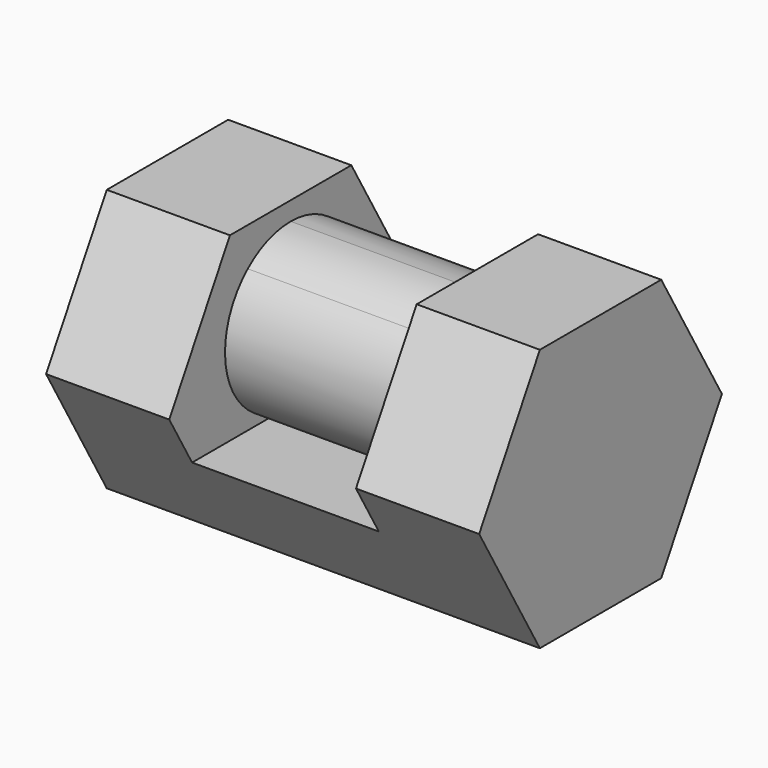
from build123d import *

# Parameters (mm, degrees)
F3_DEPTH = 150
F6_DEPTH = 227.39467
F7_DEPTH = 227.39467


with BuildPart() as f3:
    # F2 (on line) → F3 (new body)
    with BuildSketch(Plane.YZ.offset(263.697335)):
        Polygon((0, 320), (0, 0), (92.3760430703, 0), (184.7520861407, 160), (92.3760430703, 320), align=None)
        Polygon((-92.3760430703, 0), (0, 0), (0, 320), (-92.3760430703, 320), (-184.7520861407, 160), align=None)
    extrude(amount=-F3_DEPTH)


with BuildPart() as f4_1:
    # F4: instance of F3
    add(f3.part.mirror(Plane.YZ))


with BuildPart() as f3_1:
    add(f3.part)

    add(f4_1.part)  # F6 merges F4_1
    # F5 (on face) → F6 (join, through all)
    with BuildSketch(Plane(origin=(113.697335, 0, 0), x_dir=(0, -1, 0), z_dir=(-1, 0, 0))):
        Polygon((-149.9936365076, 99.7965992432), (-92.3760430703, 0), (-34.7584496331, 99.7965992432), align=None)
        with BuildLine():
            Line((-34.7584496331, 99.7965992432), (-92.3760430703, 0))
            Line((-92.3760430703, 0), (92.3760430703, 0))
            Line((92.3760430703, 0), (34.7584496331, 99.7965992432))
            Line((34.7584496331, 99.7965992432), (20.8100413197, 99.7965992432))
            ThreePointArc((20.8100413197, 99.7965992432), (0, 97.6046816163), (-20.8100413197, 99.7965992432))
            Line((-20.8100413197, 99.7965992432), (-34.7584496331, 99.7965992432))
        make_face()
        Polygon((34.7584496331, 99.7965992432), (92.3760430703, 0), (149.9936365076, 99.7965992432), align=None)
    extrude(amount=F6_DEPTH)

    # F5 (on face) → F7 (join, through all)
    with BuildSketch(Plane(origin=(113.697335, 0, 0), x_dir=(0, -1, 0), z_dir=(-1, 0, 0))):
        with BuildLine():
            Line((-92.5799725491, 160), (0, 160))
            Line((0, 160), (0, 297.366897697))
            ThreePointArc((0, 297.366897697), (-82.8261973956, 253.3074410864), (-92.5799725491, 160))
        make_face()
        with BuildLine():
            Line((0, 297.366897697), (0, 160))
            Line((0, 160), (65.2852114178, 273.0773031585))
            ThreePointArc((65.2852114178, 273.0773031585), (34.8286636002, 291.0977543577), (0, 297.366897697))
        make_face()
        with BuildLine():
            Line((65.2852114178, 273.0773031585), (0, 160))
            Line((0, 160), (92.5799725491, 160))
            ThreePointArc((92.5799725491, 160), (98.0388341014, 178.3906920813), (99.8811080403, 197.4857896566))
            ThreePointArc((99.8811080403, 197.4857896566), (90.8212392517, 239.0518604856), (65.2852114178, 273.0773031585))
        make_face()
        with BuildLine():
            Line((92.5799725491, 160), (0, 160))
            Line((0, 160), (32.8215652942, 103.1513813265))
            ThreePointArc((32.8215652942, 103.1513813265), (68.8427758348, 125.1193059869), (92.5799725491, 160))
        make_face()
        with BuildLine():
            ThreePointArc((-92.5799725491, 160), (-68.8427758348, 125.1193059868), (-32.8215652942, 103.1513813265))
            Line((-32.8215652942, 103.1513813265), (0, 160))
            Line((0, 160), (-92.5799725491, 160))
        make_face()
    extrude(amount=F7_DEPTH)


solid = f3_1.part
